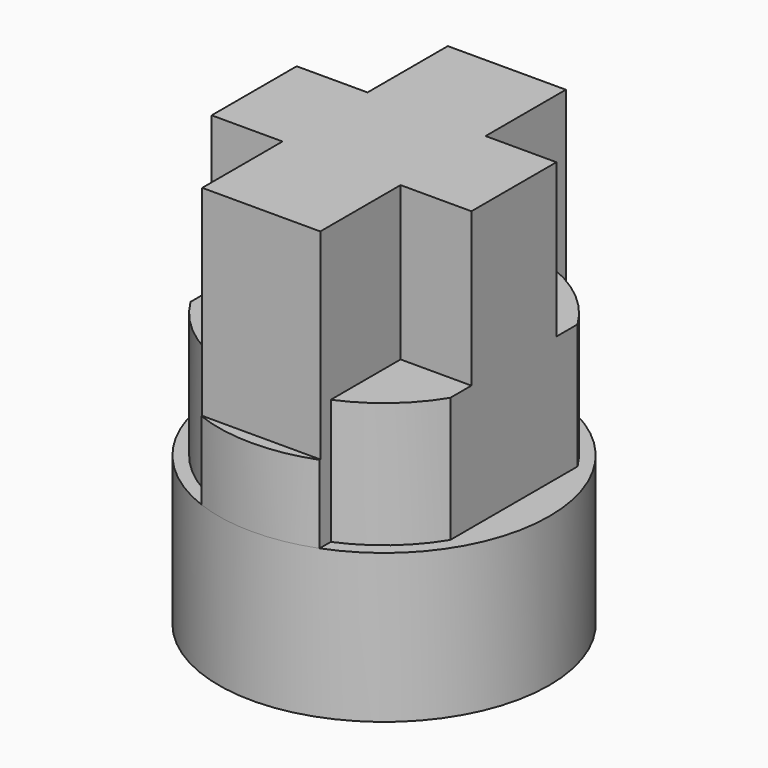
from build123d import *

# Parameters (mm, degrees)
F0_R          = 14
F1_DEPTH      = 12.6
F2_R          = 12.9
F3_DEPTH      = 10.6
F5_DEPTH      = 10.6
F6_W          = 6
F6_H          = 9
F6_W_2        = 10
F6_H_2        = 8.5
F7_DEPTH      = 13
F7_DEPTH_BACK = 12
F9_DEPTH      = 6.6
F10_R         = 13.5
F11_DEPTH     = 12


with BuildPart() as f1:
    # F0 (on Top) → F1 (new body)
    with BuildSketch(Plane.XY):
        Circle(F0_R)
    extrude(amount=F1_DEPTH)

    # F2 (on face) → F3 (join)
    with BuildSketch(Plane.XY.offset(12.6)):
        Circle(F2_R)
    extrude(amount=F3_DEPTH)

    # F4 (on face) → F5 (cut)
    with BuildSketch(Plane.XY.offset(23.2)):
        with BuildLine():
            Line((19.0122332424, 15.1731111109), (11, 15.1731111109))
            Line((11, 15.1731111109), (11, 6.7386942355))
            ThreePointArc((11, 6.7386942355), (12.4159172033, 3.5007142128), (12.9, 0))
            ThreePointArc((12.9, 0), (12.4159172033, -3.5007142128), (11, -6.7386942355))
            Line((11, -6.7386942355), (11, -15.1731111109))
            Line((11, -15.1731111109), (19.0122332424, -15.1731111109))
            Line((19.0122332424, -15.1731111109), (19.0122332424, 15.1731111109))
        make_face()
        with BuildLine():
            Line((-11, -6.7386942355), (-11, 6.7386942355))
            ThreePointArc((-11, 6.7386942355), (-12.9, 0), (-11, -6.7386942355))
        make_face()
        with BuildLine():
            Line((-11, 6.7386942355), (-11, 13.9122297987))
            Line((-11, 13.9122297987), (-20.8380557597, 13.9122297987))
            Line((-20.8380557597, 13.9122297987), (-20.8380557597, -13.9122297987))
            Line((-20.8380557597, -13.9122297987), (-11, -13.9122297987))
            Line((-11, -13.9122297987), (-11, -6.7386942355))
            ThreePointArc((-11, -6.7386942355), (-12.9, 0), (-11, 6.7386942355))
        make_face()
        with BuildLine():
            ThreePointArc((12.9, 0), (12.4159172033, 3.5007142128), (11, 6.7386942355))
            Line((11, 6.7386942355), (11, -6.7386942355))
            ThreePointArc((11, -6.7386942355), (12.4159172033, -3.5007142128), (12.9, 0))
        make_face()
    extrude(amount=-F5_DEPTH, mode=Mode.SUBTRACT)

    # F6 (on face) → F7 (join, two sides)
    with BuildSketch(Plane.XY.offset(23.2)) as f7_sk:
        with Locations((-8, 0)):
            Rectangle(F6_W, F6_H)
        with Locations((0, 8.75)):
            Rectangle(F6_W_2, F6_H_2)
        Rectangle(F6_W_2, F6_H)
        with Locations((8, 0)):
            Rectangle(F6_W, F6_H)
        with Locations((0, -8.75)):
            Rectangle(F6_W_2, F6_H_2)
    extrude(amount=F7_DEPTH)
    extrude(f7_sk.sketch, amount=-F7_DEPTH_BACK)

    # F8 (on face) → F9 (join)
    with BuildSketch(Plane.XY.offset(12.6)):
        with BuildLine():
            Line((5, -13), (-5, -13))
            Line((-5, -13), (-5, -13.0766968306))
            ThreePointArc((-5, -13.0766968306), (0, -14), (5, -13.0766968306))
            Line((5, -13.0766968306), (5, -13))
        make_face()
        with BuildLine():
            ThreePointArc((5, 13.0766968306), (0, 14), (-5, 13.0766968306))
            Line((-5, 13.0766968306), (-5, 13))
            Line((-5, 13), (5, 13))
            Line((5, 13), (5, 13.0766968306))
        make_face()
    extrude(amount=F9_DEPTH)

    # F10 (on face) → F11 (cut)
    with BuildSketch(Plane(origin=(0, 0, 0), x_dir=(1, 0, 0), z_dir=(0, 0, -1))):
        Circle(F10_R)
    extrude(amount=-F11_DEPTH, mode=Mode.SUBTRACT)


solid = f1.part
